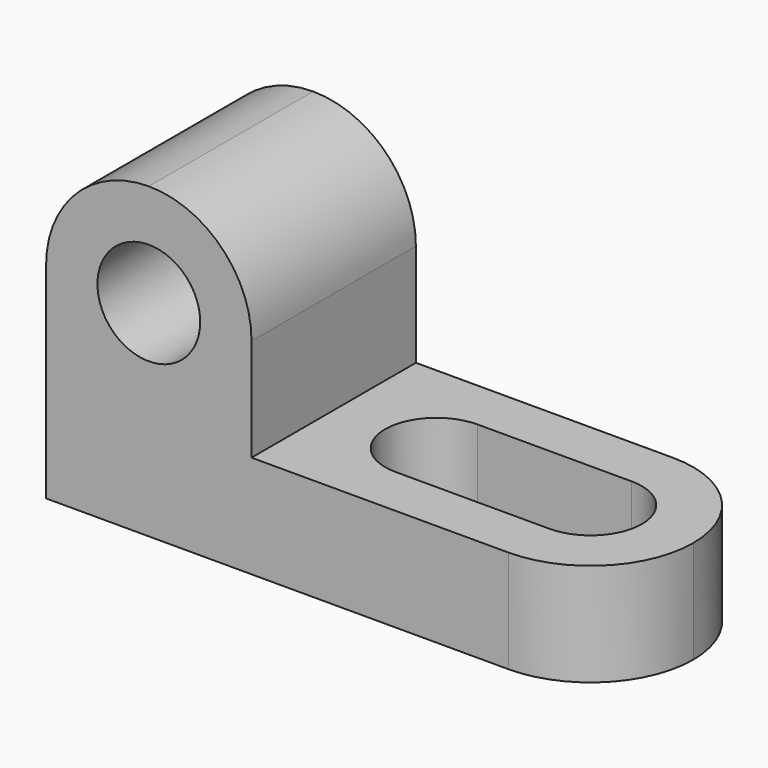
from build123d import *

# Parameters (mm, degrees)
F1_DEPTH = 25.4
F2_R     = 6.35
F3_DEPTH = 25.4
F4_DEPTH = 25.4
F6_DEPTH = 25.4


with BuildPart() as f1:
    # F0 (on Front) → F1 (new body)
    with BuildSketch(Plane.XZ):
        Polygon((0, 38.1), (0, 0), (69.85, 0), (69.85, 12.7), (25.4, 12.7), (25.4, 38.1), align=None)
    extrude(amount=F1_DEPTH)

    # F2 (on face) → F3 (cut)
    with BuildSketch(Plane.XZ.offset(25.4)):
        with Locations((12.7, 25.4)):
            Circle(F2_R)
    extrude(amount=-F3_DEPTH, mode=Mode.SUBTRACT)

    # F2 (on face) → F4 (cut)
    with BuildSketch(Plane.XZ.offset(25.4)):
        with Locations((12.7, 25.4)):
            Circle(F2_R)
        with BuildLine():
            ThreePointArc((0, 25.4), (3.719744, 34.380256), (12.7, 38.1))
            Line((12.7, 38.1), (0, 38.1))
            Line((0, 38.1), (0, 25.4))
        make_face()
        with BuildLine():
            ThreePointArc((12.7, 38.1), (21.680256, 34.380256), (25.4, 25.4))
            Line((25.4, 25.4), (25.4, 38.1))
            Line((25.4, 38.1), (12.7, 38.1))
        make_face()
    extrude(amount=-F4_DEPTH, mode=Mode.SUBTRACT)

    # F5 (on face) → F6 (cut)
    with BuildSketch(Plane.XY.offset(12.7)):
        with BuildLine():
            ThreePointArc((38.1, -19.05), (42.590128, -17.190128), (44.45, -12.7))
            ThreePointArc((44.45, -12.7), (42.590128, -8.209872), (38.1, -6.35))
            ThreePointArc((38.1, -6.35), (31.75, -12.7), (38.1, -19.05))
        make_face()
        with BuildLine():
            ThreePointArc((38.1, -6.35), (42.590128, -8.209872), (44.45, -12.7))
            ThreePointArc((44.45, -12.7), (42.590128, -17.190128), (38.1, -19.05))
            Line((38.1, -19.05), (57.15, -19.05))
            ThreePointArc((57.15, -19.05), (50.8, -12.7), (57.15, -6.35))
            Line((57.15, -6.35), (38.1, -6.35))
        make_face()
        with BuildLine():
            ThreePointArc((63.5, -12.7), (61.640128, -8.209872), (57.15, -6.35))
            ThreePointArc((57.15, -6.35), (50.8, -12.7), (57.15, -19.05))
            ThreePointArc((57.15, -19.05), (61.640128, -17.190128), (63.5, -12.7))
        make_face()
        with BuildLine():
            ThreePointArc((57.15, 0), (66.130256, -3.719744), (69.85, -12.7))
            Line((69.85, -12.7), (69.85, 0))
            Line((69.85, 0), (57.15, 0))
        make_face()
        with BuildLine():
            ThreePointArc((69.85, -12.7), (66.130256, -21.680256), (57.15, -25.4))
            Line((57.15, -25.4), (69.85, -25.4))
            Line((69.85, -25.4), (69.85, -12.7))
        make_face()
    extrude(amount=-F6_DEPTH, mode=Mode.SUBTRACT)


solid = f1.part
